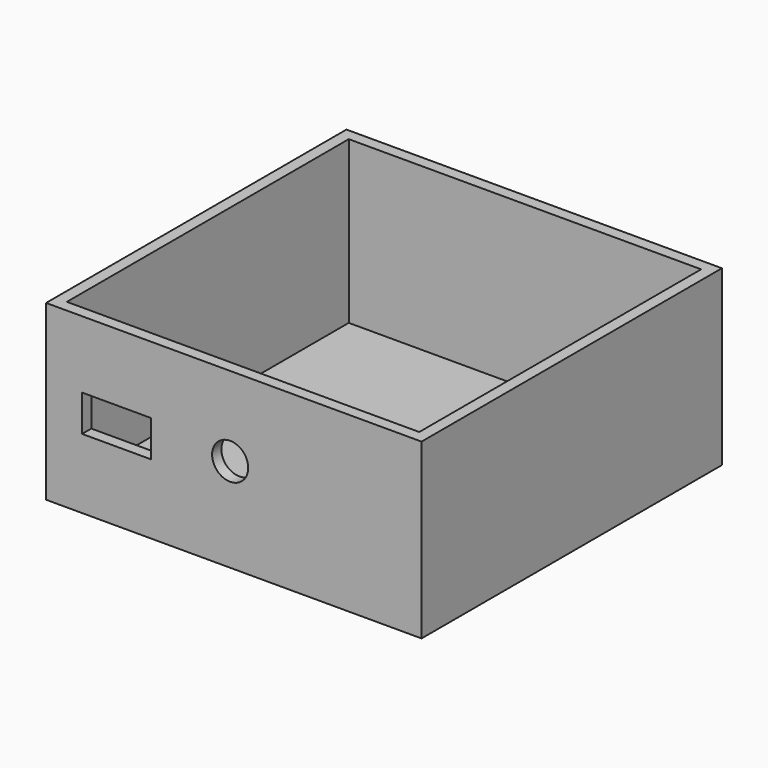
from build123d import *

# Parameters (mm, degrees)
F0_W     = 82.55
F0_H     = 38.1
F1_DEPTH = 82.55
F3_T     = -2.54
F5_D     = 7.9375
F5_DEPTH = 12.7
F6_W     = 15.181465
F6_H     = 8.003246
F7_DEPTH = 2.54


with BuildPart() as f1:
    # F0 (on Front) → F1 (new body)
    with BuildSketch(Plane.XZ):
        with Locations((41.275, 19.05)):
            Rectangle(F0_W, F0_H)
    extrude(amount=F1_DEPTH)

    # F3
    f3_openings = [f1.faces().sort_by_distance(p)[0] for p in [
        (41.275, -41.275, 38.1),
    ]]
    offset(amount=F3_T, openings=f3_openings)

    # F5
    with Locations(Plane.XZ.offset(82.55)):
        with Locations((40.470496, 20.613467)):
            Hole(F5_D / 2, depth=F5_DEPTH)

    # F6 (on face) → F7 (cut, through all)
    with BuildSketch(Plane.XZ.offset(82.55)):
        with Locations((15.511802, 19.324051)):
            Rectangle(F6_W, F6_H)
    extrude(amount=-F7_DEPTH, mode=Mode.SUBTRACT)


solid = f1.part
